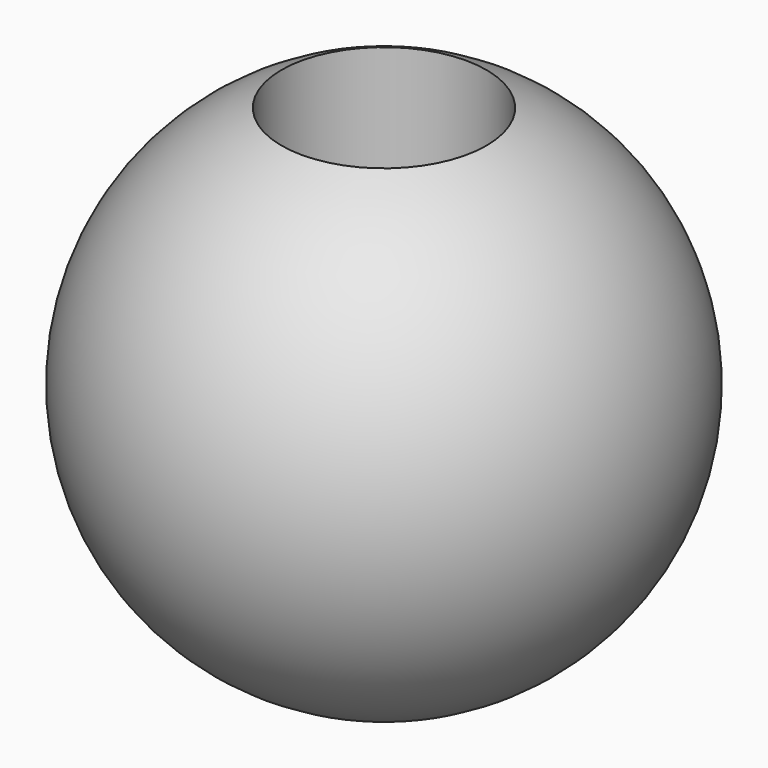
from build123d import *

# Parameters (mm, degrees)
F3_R     = 13.064863
F4_DEPTH = 381


with BuildPart() as f1:
    # F0 (on Front) → F1 (revolve)
    with BuildSketch(Plane.XZ):
        with BuildLine():
            Line((0, -33.647735), (0, 33.647735))
            ThreePointArc((0, 33.647735), (-33.647735, 0), (0, -33.647735))
        make_face()
    revolve(axis=Axis((0, 0, -1.367694), (0, 0, -1)))

    # F3 (on offset) → F4 (cut)
    with BuildSketch(Plane.XY.offset(127)):
        Circle(F3_R)
    extrude(amount=-F4_DEPTH, mode=Mode.SUBTRACT)


solid = f1.part
